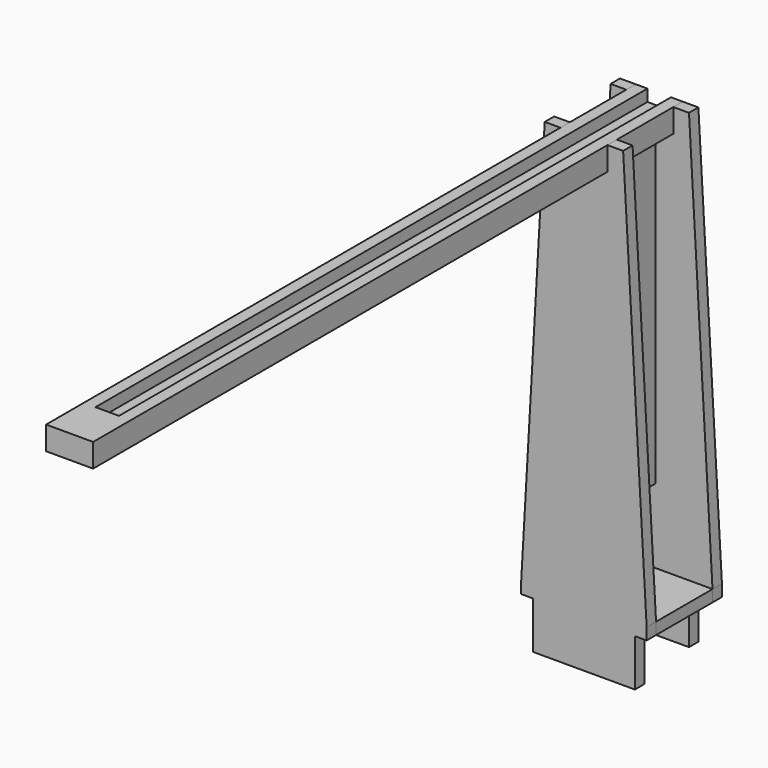
from build123d import *

# Parameters (mm, degrees)
F0_W           = 203.2
F0_H           = 19.05
F1_DEPTH       = 762
F2_W           = 19.05
F2_H           = 76.2
F2_W_2         = 76.2
F2_H_2         = 38.1
F3_DEPTH       = 25.4
F4_W           = 76.2
F4_H           = 38.1
F4_W_2         = 38.1
F4_H_2         = 76.2
F5_DEPTH       = 25.4
F7_DEPTH       = 1117.6
F7_DEPTH_BACK  = 76.2
F8_R           = 3.175
F9_DEPTH       = 25.4
F10_SIZE       = 12.7
F12_START      = 1041.4
F11_W          = 38.1
F11_H          = 19.05
F12_DEPTH      = 76.2
F13_W          = 114.3
F13_H          = 508
F14_DEPTH      = 9.525
F14_DEPTH_BACK = 9.525
F15_W          = 114.3
F15_H          = 19.05
F16_DEPTH      = 101.6
F16_DEPTH_BACK = 101.6


with BuildPart() as f1:
    # F0 (on Top) → F1 (new body)
    with BuildSketch(Plane.XY):
        with Locations((0, -66.675)):
            Rectangle(F0_W, F0_H)
    extrude(amount=F1_DEPTH)

    # F2 (on face) → F3 (cut)
    with BuildSketch(Plane.XZ.offset(76.2)):
        Polygon((101.6, 95.25), (101.6, 762), (63.5, 762), align=None)
        Polygon((-101.6, 95.25), (-63.5, 762), (-101.6, 762), align=None)
        with Locations((-92.075, 38.1)):
            Rectangle(F2_W, F2_H)
        with Locations((0, 742.95)):
            Rectangle(F2_W_2, F2_H_2)
        with Locations((92.075, 38.1)):
            Rectangle(F2_W, F2_H)
    extrude(amount=-F3_DEPTH, mode=Mode.SUBTRACT)


with BuildPart() as f1b:
    # F0 (on Top) → F1, piece 2 (new body)
    with BuildSketch(Plane.XY):
        with Locations((0, 66.675)):
            Rectangle(F0_W, F0_H)
    extrude(amount=F1_DEPTH)

    # F4 (on face) → F5 (cut)
    with BuildSketch(Plane.XZ.offset(-57.15)):
        with Locations((0, 742.95)):
            Rectangle(F4_W, F4_H)
        Polygon((101.6, 95.25), (101.6, 762), (63.5, 762), align=None)
        Polygon((-63.5, 762), (-101.6, 762), (-101.6, 95.25), align=None)
        with Locations((82.55, 38.1)):
            Rectangle(F4_W_2, F4_H_2)
        with Locations((-82.55, 38.1)):
            Rectangle(F4_W_2, F4_H_2)
    extrude(amount=-F5_DEPTH, mode=Mode.SUBTRACT)


with BuildPart() as f7:
    # F6 (on Front) → F7 (new body, two sides)
    with BuildSketch(Plane.XZ) as f7_sk:
        Polygon((-19.05, 762), (-38.1, 762), (-38.1, 723.9), (38.1, 723.9), (38.1, 762), (19.05, 762), (19.05, 742.95), (-19.05, 742.95), align=None)
    extrude(amount=F7_DEPTH)
    extrude(f7_sk.sketch, amount=-F7_DEPTH_BACK)

    # F8 (on face) → F9 (cut)
    with BuildSketch(Plane.XY.offset(742.95)):
        with Locations((0, -1003.3)):
            Circle(F8_R)
    extrude(amount=-F9_DEPTH, mode=Mode.SUBTRACT)

    # F10
    f10_edges = [f7.edges().sort_by_distance(p)[0] for p in [
        (-3.175, -1003.3, 723.9),
    ]]
    chamfer(f10_edges, length=F10_SIZE)

    # F11 (on Front) → F12 (join)
    with BuildSketch(Plane.XZ.offset(F12_START)):
        with Locations((0, 752.475)):
            Rectangle(F11_W, F11_H)
    extrude(amount=F12_DEPTH)


with BuildPart() as f14:
    # F13 (on Right) → F14 (new body, two sides)
    with BuildSketch(Plane.YZ) as f14_sk:
        with Locations((0, 469.9)):
            Rectangle(F13_W, F13_H)
    extrude(amount=F14_DEPTH)
    extrude(f14_sk.sketch, amount=-F14_DEPTH_BACK)


with BuildPart() as f16:
    # F15 (on Right) → F16 (new body, two sides)
    with BuildSketch(Plane.YZ) as f16_sk:
        with Locations((0, 85.725)):
            Rectangle(F15_W, F15_H)
    extrude(amount=F16_DEPTH)
    extrude(f16_sk.sketch, amount=-F16_DEPTH_BACK)


solid = Compound([f1.part, f1b.part, f7.part, f14.part, f16.part])
